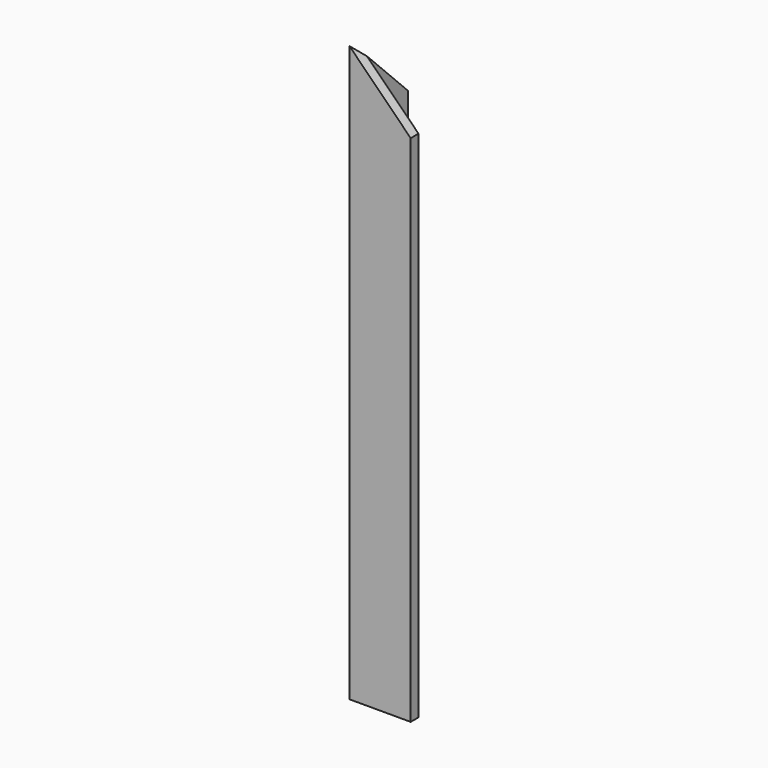
from build123d import *

# Parameters (mm, degrees)
F1_DEPTH = 470
F3_DEPTH = 8
F5_DEPTH = 8


with BuildPart() as f1:
    # F0 (on Top) → F1 (new body)
    with BuildSketch(Plane.XY):
        Polygon((0, 50), (0, 0), (50, 0), (50, 8), (8, 8), (8, 50), align=None)
    extrude(amount=F1_DEPTH)

    # F2 (on face) → F3 (cut, through all)
    with BuildSketch(Plane.XZ):
        Polygon((50, 470), (0, 470), (50, 420), align=None)
    extrude(amount=-F3_DEPTH, mode=Mode.SUBTRACT)

    # F4 (on face) → F5 (cut, through all)
    with BuildSketch(Plane(origin=(0, 0, 0), x_dir=(0, -1, 0), z_dir=(-1, 0, 0))):
        Polygon((-50, 420), (0, 470), (-8, 470), (-50, 470), align=None)
    extrude(amount=-F5_DEPTH, mode=Mode.SUBTRACT)


solid = f1.part
